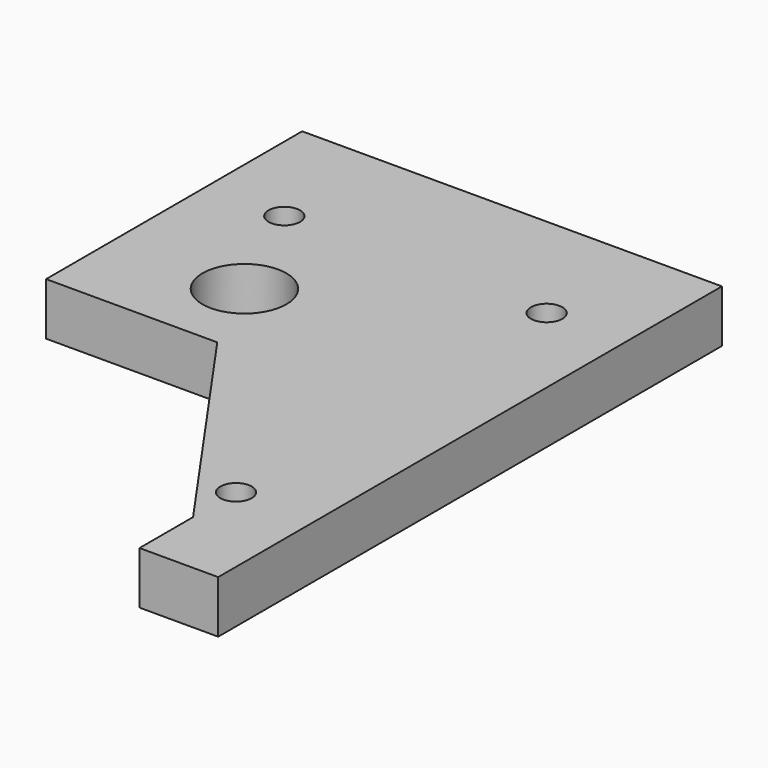
from build123d import *

# Parameters (mm, degrees)
SKETCH_R   = 8
SKETCH_R_2 = 3
PAD_DEPTH  = 10


with BuildPart() as part:
    # Sketch → Pad (new body)
    with BuildSketch(Plane.XY):
        Polygon((-25, 45), (55, 45), (55, -75), (40, -75), (40, -62.235413), (7.625615, -16), (-25, -16), align=None)
        Circle(SKETCH_R, mode=Mode.SUBTRACT)
        with Locations((40, -52)):
            Circle(SKETCH_R_2, mode=Mode.SUBTRACT)
        with Locations((40, 22)):
            Circle(SKETCH_R_2, mode=Mode.SUBTRACT)
        with Locations((-10, 22)):
            Circle(SKETCH_R_2, mode=Mode.SUBTRACT)
    extrude(amount=PAD_DEPTH)


solid = part.part
